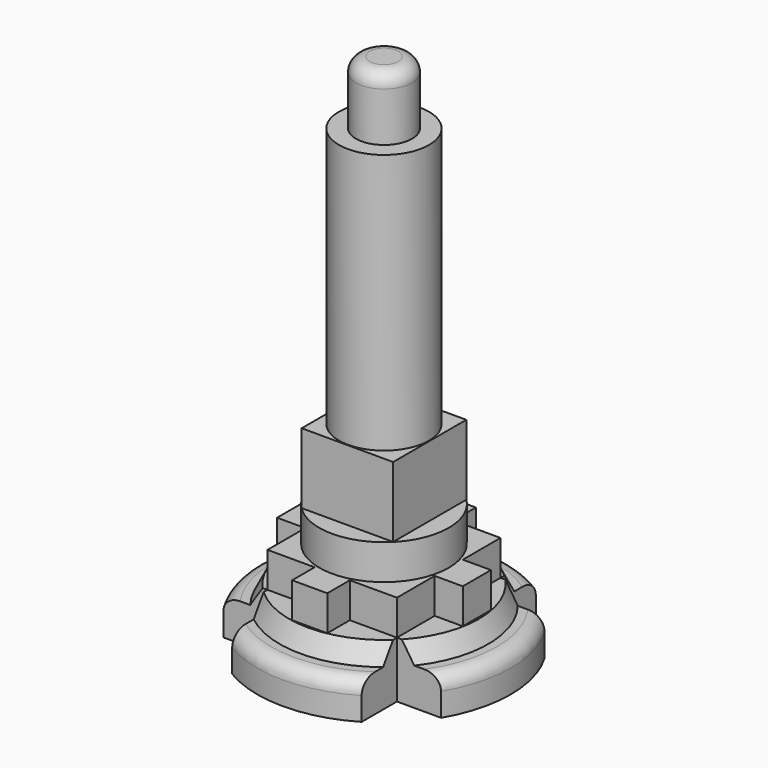
from build123d import *

# Parameters (mm, degrees)
BOX001_W          = 2
BOX001_H          = 2.5
BOX001_DEPTH      = 2.5
ARRAY001_COUNT    = 4
CYLINDER003_R     = 4.6
CYLINDER003_DEPTH = 2.5
BOX002_W          = 6.5
BOX002_H          = 6.5
BOX002_DEPTH      = 5
CYLINDER004_R     = 3.2
CYLINDER004_DEPTH = 18.5
CYLINDER001_W     = 9
CYLINDER001_H     = 6
CYLINDER001_ANGLE = 90
ARRAY_COUNT       = 4
CYLINDER006_R     = 4.5
CYLINDER006_DEPTH = 2
CYLINDER007_R     = 2.5
CYLINDER007_DEPTH = 6
CYLINDER_R        = 9
CYLINDER_DEPTH    = 2.65
FILLET_R          = 1
FILLET001_R       = 1
FILLET002_R       = 1
FILLET003_R       = 1
CYLINDER005_R     = 2
CYLINDER005_DEPTH = 5
FILLET004_R       = 1
BOX_W             = 9.2
BOX_H             = 9.2
BOX_DEPTH         = 2.5


with BuildPart() as array001:
    # Box001 → Box001 (new body)
    with BuildSketch(Plane(origin=(4.6, -1.25, 6), x_dir=(1, 0, 0), z_dir=(0, 0, 1))):
        with Locations((1, 1.25)):
            Rectangle(BOX001_W, BOX001_H)
    extrude(amount=BOX001_DEPTH)

    # Array001: Array001 ×4 about axis
    array001_axis = Axis((0, 0, 0), (0, 0, 1))


with BuildPart() as array001_1:
    add(array001.part)
    for i in range(1, ARRAY001_COUNT):
        add(array001.part.rotate(array001_axis, i * 360 / ARRAY001_COUNT))


with BuildPart() as cilindro003:
    # Cylinder003 → Cylinder003 (new body)
    with BuildSketch(Plane.XY.offset(8.5)):
        Circle(CYLINDER003_R)
    extrude(amount=CYLINDER003_DEPTH)


with BuildPart() as cubo002:
    # Box002 → Box002 (new body)
    with BuildSketch(Plane(origin=(-3.25, -3.25, 11), x_dir=(1, 0, 0), z_dir=(0, 0, 1))):
        with Locations((3.25, 3.25)):
            Rectangle(BOX002_W, BOX002_H)
    extrude(amount=BOX002_DEPTH)


with BuildPart() as cilindro004:
    # Cylinder004 → Cylinder004 (new body)
    with BuildSketch(Plane.XY.offset(16)):
        Circle(CYLINDER004_R)
    extrude(amount=CYLINDER004_DEPTH)


with BuildPart() as array:
    # Cylinder001 → Cylinder001 (revolve)
    with BuildSketch(Plane(origin=(4.6, 4.6, 0), x_dir=(1, 0, 0), z_dir=(0, -1, 0))):
        with Locations((4.5, 3)):
            Rectangle(CYLINDER001_W, CYLINDER001_H)
    revolve(axis=Axis((4.6, 4.6, 0), (0, 0, 1)), revolution_arc=CYLINDER001_ANGLE)

    # Array: Array ×4 about axis
    array_axis = Axis((0, 0, 0), (0, 0, 1))


with BuildPart() as array_1:
    add(array.part)
    for i in range(1, ARRAY_COUNT):
        add(array.part.rotate(array_axis, i * 360 / ARRAY_COUNT))


with BuildPart() as cilindro006:
    # Cylinder006 → Cylinder006 (new body)
    with BuildSketch(Plane.XY.offset(2)):
        Circle(CYLINDER006_R)
    extrude(amount=CYLINDER006_DEPTH)


with BuildPart() as cilindro007:
    # Cylinder007 → Cylinder007 (new body)
    with BuildSketch(Plane.XY.offset(4)):
        Circle(CYLINDER007_R)
    extrude(amount=CYLINDER007_DEPTH)


with BuildPart() as cut001:
    # Cylinder → Cylinder (new body)
    with BuildSketch(Plane.XY.offset(2)):
        Circle(CYLINDER_R)
    extrude(amount=CYLINDER_DEPTH)

    # Cut: cut Cilindro007
    add(cilindro007.part, mode=Mode.SUBTRACT)

    # Cut001: cut Cilindro006
    add(cilindro006.part, mode=Mode.SUBTRACT)


with BuildPart() as fillet003:
    # Cone → Cone (revolve)
    with BuildSketch(Plane(origin=(0, 0, 4.5), x_dir=(1, 0, 0), z_dir=(0, -1, 0))):
        Polygon((0, 0), (7.5, 0), (6.75, 1.5), (0, 1.5), align=None)
    revolve(axis=Axis((0, 0, 4.5), (0, 0, 1)))

    # Fusion: union Cut001
    add(cut001.part)

    # Cut002: cut Array
    add(array_1.part, mode=Mode.SUBTRACT)

    # Fillet
    fillet_edges = [fillet003.edges().sort_by_distance(p)[0] for p in [
        (0, 9, 4.65),
    ]]
    fillet(fillet_edges, radius=FILLET_R)

    # Fillet001
    fillet001_edges = [fillet003.edges().sort_by_distance(p)[0] for p in [
        (-9, 0, 4.65),
    ]]
    fillet(fillet001_edges, radius=FILLET001_R)

    # Fillet002
    fillet002_edges = [fillet003.edges().sort_by_distance(p)[0] for p in [
        (0, -9, 4.65),
    ]]
    fillet(fillet002_edges, radius=FILLET002_R)

    # Fillet003
    fillet003_edges = [fillet003.edges().sort_by_distance(p)[0] for p in [
        (8.678153, 2.3853, 4.65),
    ]]
    fillet(fillet003_edges, radius=FILLET003_R)


with BuildPart() as fillet004:
    # Cylinder005 → Cylinder005 (new body)
    with BuildSketch(Plane.XY.offset(34)):
        Circle(CYLINDER005_R)
    extrude(amount=CYLINDER005_DEPTH)

    # Fillet004
    fillet004_edges = [fillet004.edges().sort_by_distance(p)[0] for p in [
        (-2, 0, 39),
    ]]
    fillet(fillet004_edges, radius=FILLET004_R)


with BuildPart() as fusion001:
    # Box → Box (new body)
    with BuildSketch(Plane(origin=(-4.6, -4.6, 6), x_dir=(1, 0, 0), z_dir=(0, 0, 1))):
        with Locations((4.6, 4.6)):
            Rectangle(BOX_W, BOX_H)
    extrude(amount=BOX_DEPTH)

    # Fusion001: union Array001, Cilindro003, Cubo002, Cilindro004, Fillet003, Fillet004
    add(array001_1.part)
    add(cilindro003.part)
    add(cubo002.part)
    add(cilindro004.part)
    add(fillet003.part)
    add(fillet004.part)


solid = fusion001.part
